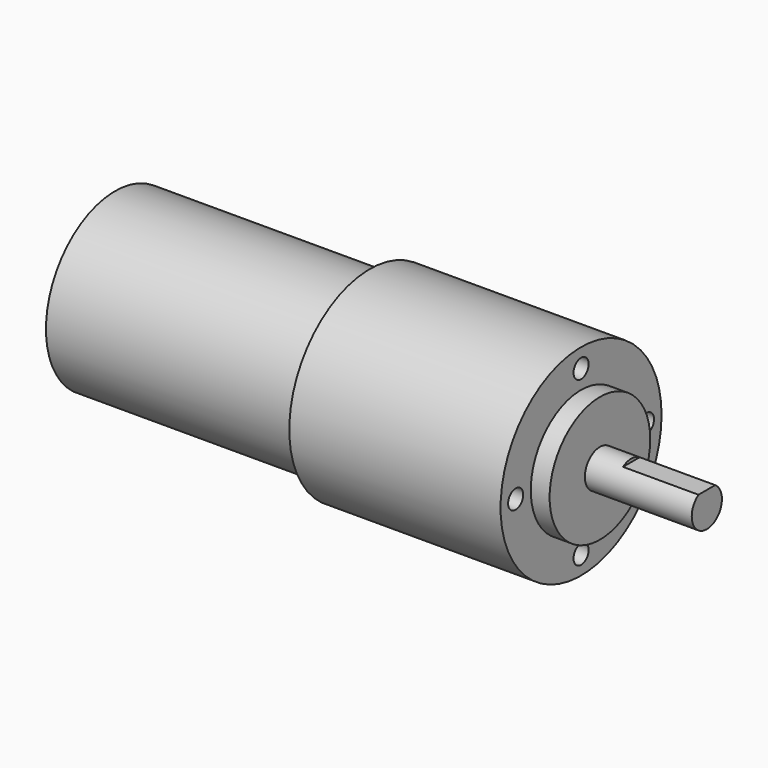
from build123d import *

# Parameters (mm, degrees)
F0_R      = 13.75
F1_DEPTH  = 40.5
F2_R      = 16
F3_DEPTH  = 33.6
F4_R      = 10
F5_DEPTH  = 3
F6_R      = 3
F7_DEPTH  = 17
F8_W      = 9.724755
F8_H      = 3.28539
F9_DEPTH  = 12
F10_R     = 1.5
F11_DEPTH = 5.5


with BuildPart() as f1:
    # F0 (on Right) → F1 (new body)
    with BuildSketch(Plane.YZ):
        Circle(F0_R)
    extrude(amount=F1_DEPTH)

    # F2 (on face) → F3 (join)
    with BuildSketch(Plane.YZ.offset(40.5)):
        Circle(F2_R)
    extrude(amount=F3_DEPTH)

    # F4 (on face) → F5 (join)
    with BuildSketch(Plane.YZ.offset(74.1)):
        Circle(F4_R)
    extrude(amount=F5_DEPTH)

    # F6 (on face) → F7 (join)
    with BuildSketch(Plane.YZ.offset(77.1)):
        Circle(F6_R)
    extrude(amount=F7_DEPTH)

    # F8 (on face) → F9 (cut)
    with BuildSketch(Plane.YZ.offset(94.1)):
        with Locations((0.085164, 4.142695)):
            Rectangle(F8_W, F8_H)
    extrude(amount=-F9_DEPTH, mode=Mode.SUBTRACT)

    # F10 (on face) → F11 (cut)
    with BuildSketch(Plane.YZ.offset(74.1)):
        with Locations((0, 13)):
            Circle(F10_R)
        with Locations((13, 0)):
            Circle(F10_R)
        with Locations((0, -13)):
            Circle(F10_R)
        with Locations((-13, 0)):
            Circle(F10_R)
    extrude(amount=-F11_DEPTH, mode=Mode.SUBTRACT)


solid = f1.part
